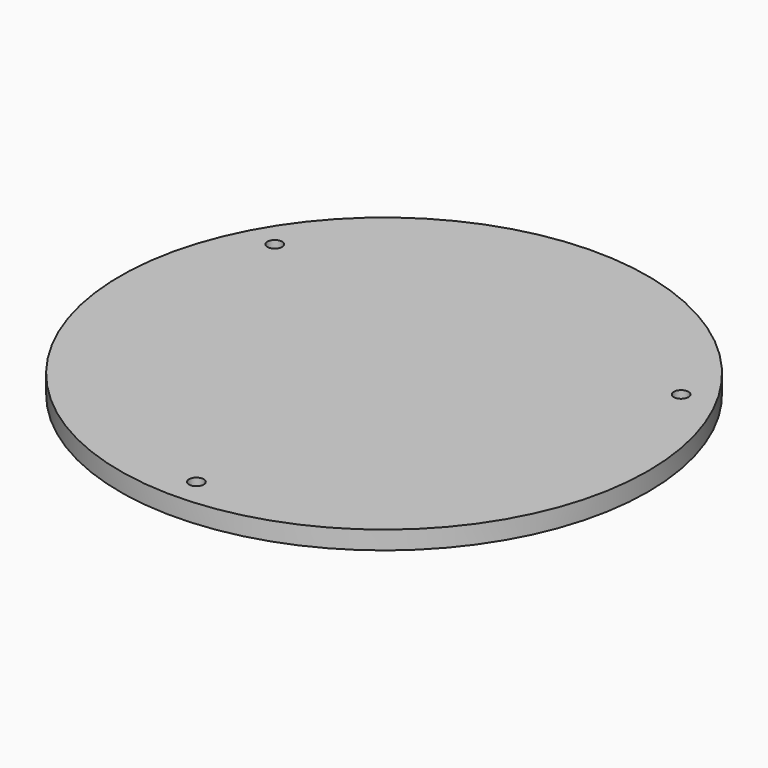
from build123d import *

# Parameters (mm, degrees)
F0_R     = 114.3
F0_R_2   = 3.175
F1_DEPTH = 7.9375


with BuildPart() as f1:
    # F0 (on Top) → F1 (new body)
    with BuildSketch(Plane.XY):
        Circle(F0_R)
        with Locations((0, -101.6)):
            Circle(F0_R_2, mode=Mode.SUBTRACT)
        with Locations((-87.988181, 50.8)):
            Circle(F0_R_2, mode=Mode.SUBTRACT)
        with Locations((87.988181, 50.8)):
            Circle(F0_R_2, mode=Mode.SUBTRACT)
    extrude(amount=F1_DEPTH)


solid = f1.part
